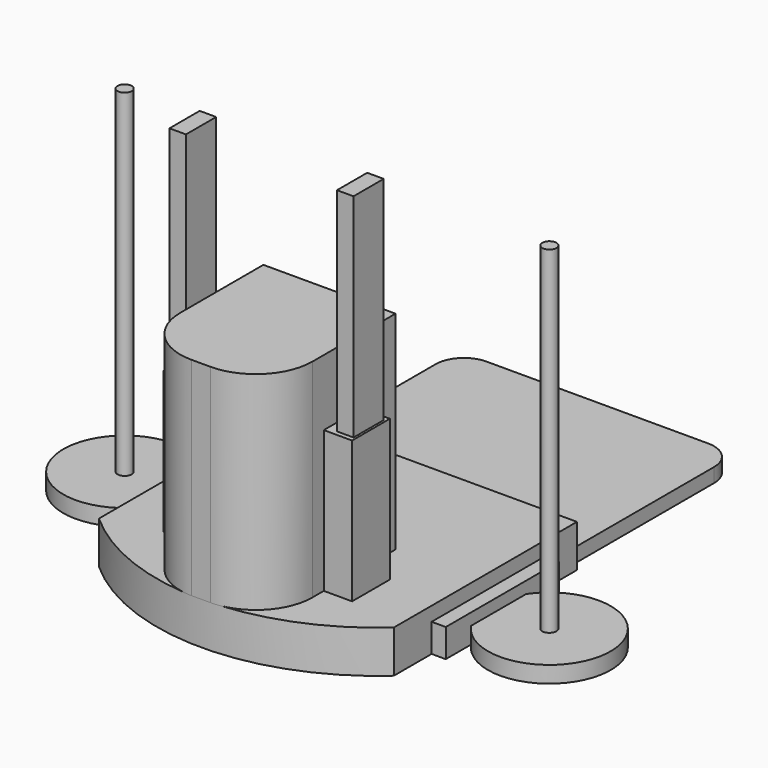
from build123d import *

# Parameters (mm, degrees)
SKETCH007_R      = 1.5
EXTRUDE012_DEPTH = 75
SKETCH008_R      = 13
EXTRUDE014_DEPTH = 3.5
EXTRUDE002_DEPTH = 44
SKETCH002_W      = 3.5
SKETCH002_H      = 8
EXTRUDE003_DEPTH = 75
SKETCH003_W      = 40
SKETCH003_H      = 10
EXTRUDE005_DEPTH = 30
SKETCH004_W      = 68.5
SKETCH004_H      = 30
EXTRUDE006_DEPTH = 6
SKETCH005_W      = 5.5
SKETCH005_H      = 24
EXTRUDE008_DEPTH = 12
EXTRUDE009_DEPTH = 3
EXTRUDE010_DEPTH = 3
EXTRUDE_DEPTH    = 9


with BuildPart() as extrude012:
    # Sketch007 → Extrude012 (new body)
    with BuildSketch(Plane.XY):
        with Locations((-45, 23)):
            Circle(SKETCH007_R)
        with Locations((45, 23)):
            Circle(SKETCH007_R)
    extrude(amount=EXTRUDE012_DEPTH)


with BuildPart() as extrude014:
    # Sketch008 → Extrude014 (new body)
    with BuildSketch(Plane.XY):
        with Locations((-45, 23)):
            Circle(SKETCH008_R)
        with Locations((45, 23)):
            Circle(SKETCH008_R)
    extrude(amount=EXTRUDE014_DEPTH)


with BuildPart() as extrude002:
    # Sketch001 (on Face6 of Extrude) → Extrude002 (new body)
    with BuildSketch(Plane.XY.offset(9)):
        with BuildLine():
            Line((-14, 21), (-14, -1))
            ThreePointArc((-14, -1), (-10.485281, -9.485281), (-2, -13))
            Line((-2, -13), (2, -13))
            ThreePointArc((2, -13), (10.485281, -9.485281), (14, -1))
            Line((14, 21), (14, -1))
            Line((-14, 21), (14, 21))
        make_face()
    extrude(amount=EXTRUDE002_DEPTH)


with BuildPart() as extrude003:
    # Sketch002 (on Face6 of Extrude) → Extrude003 (new body)
    with BuildSketch(Plane.XY.offset(9)):
        with Locations((-17.75, 7)):
            Rectangle(SKETCH002_W, SKETCH002_H)
        with Locations((17.75, 7)):
            Rectangle(SKETCH002_W, SKETCH002_H)
    extrude(amount=EXTRUDE003_DEPTH)


with BuildPart() as extrude005:
    # Sketch003 (on Face6 of Extrude) → Extrude005 (new body)
    with BuildSketch(Plane.XY.offset(9)):
        with Locations((0, 7)):
            Rectangle(SKETCH003_W, SKETCH003_H)
    extrude(amount=EXTRUDE005_DEPTH)


with BuildPart() as extrude006:
    # Sketch004 → Extrude006 (new body)
    with BuildSketch(Plane.XY):
        with Locations((0, 24)):
            Rectangle(SKETCH004_W, SKETCH004_H)
    extrude(amount=EXTRUDE006_DEPTH)


with BuildPart() as extrude008:
    # Sketch005 (on Face6 of Extrude) → Extrude008 (new body)
    with BuildSketch(Plane.XY.offset(9)):
        with Locations((-2.75, 12)):
            Rectangle(SKETCH005_W, SKETCH005_H)
    extrude(amount=EXTRUDE008_DEPTH)


with BuildPart() as extrude009:
    # Sketch006 → Extrude009 (new body)
    with BuildSketch(Plane.XY):
        with BuildLine():
            ThreePointArc((-23.5, 92), (-27.742641, 90.242641), (-29.5, 86))
            Line((-29.5, 48), (-29.5, 86))
            ThreePointArc((-29.5, 48), (-27.742641, 43.757359), (-23.5, 42))
            Line((23.5, 42), (-23.5, 42))
            ThreePointArc((23.5, 42), (27.742641, 43.757359), (29.5, 48))
            Line((29.5, 86), (29.5, 48))
            ThreePointArc((29.5, 86), (27.742641, 90.242641), (23.5, 92))
            Line((-23.5, 92), (23.5, 92))
        make_face()
    extrude(amount=EXTRUDE009_DEPTH)


with BuildPart() as extrude010:
    # Sketch006 → Extrude010 (new body)
    with BuildSketch(Plane.XY):
        with BuildLine():
            ThreePointArc((-23.5, 92), (-27.742641, 90.242641), (-29.5, 86))
            Line((-29.5, 48), (-29.5, 86))
            ThreePointArc((-29.5, 48), (-27.742641, 43.757359), (-23.5, 42))
            Line((23.5, 42), (-23.5, 42))
            ThreePointArc((23.5, 42), (27.742641, 43.757359), (29.5, 48))
            Line((29.5, 86), (29.5, 48))
            ThreePointArc((29.5, 86), (27.742641, 90.242641), (23.5, 92))
            Line((-23.5, 92), (23.5, 92))
        make_face()
    extrude(amount=EXTRUDE010_DEPTH)


with BuildPart() as fusion001:
    # Sketch → Extrude (new body)
    with BuildSketch(Plane.XY):
        with BuildLine():
            ThreePointArc((-31.25, -1), (0, -13), (31.25, -1))
            Line((31.25, -1), (31.25, 47.5))
            Line((-31.25, 47.5), (31.25, 47.5))
            Line((-31.25, -1), (-31.25, 47.5))
        make_face()
    extrude(amount=EXTRUDE_DEPTH)

    # Fusion: union Extrude002, Extrude003, Extrude005, Extrude006, Extrude008, Extrude009, Extrude010
    add(extrude002.part)
    add(extrude003.part)
    add(extrude005.part)
    add(extrude006.part)
    add(extrude008.part)
    add(extrude009.part)
    add(extrude010.part)

    # Fusion001: union Extrude012, Extrude014
    add(extrude012.part)
    add(extrude014.part)


solid = fusion001.part
